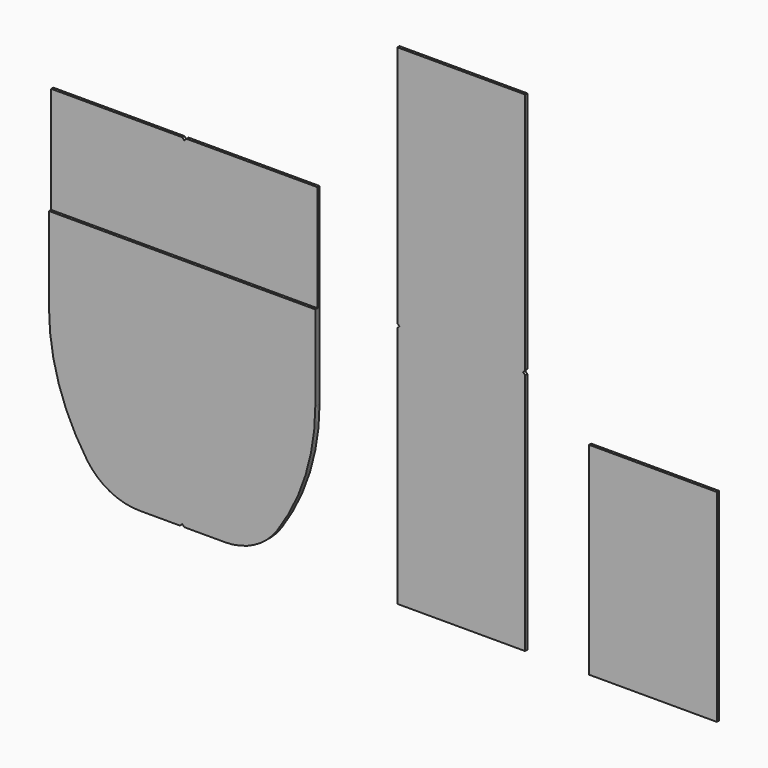
from build123d import *

# Parameters (mm, degrees)
F1_DEPTH = 3.175
F3_DEPTH = 3.175
F5_DEPTH = 3.175
F6_W     = 152.4
F6_H     = 584.2
F6_H_2   = 241.3
F7_DEPTH = 3.175
F9_DEPTH = 25.4


with BuildPart() as f1:
    # F0 (on Front) → F1 (new body)
    with BuildSketch(Plane.XZ):
        with BuildLine():
            Line((158.75, 177.8), (158.75, 406.4))
            Line((158.75, 406.4), (-158.75, 406.4))
            Line((-158.75, 406.4), (-158.75, 177.8))
            ThreePointArc((-158.75, 177.8), (-147.159009, 101.848747), (-113.441281, 32.8121))
            ThreePointArc((-113.441281, 32.8121), (-86.157333, 8.699637), (-50.8, 0))
            Line((-50.8, 0), (0, 0))
            Line((0, 0), (50.8, 0))
            ThreePointArc((50.8, 0), (86.157333, 8.699637), (113.441281, 32.8121))
            ThreePointArc((113.441281, 32.8121), (147.159009, 101.848747), (158.75, 177.8))
        make_face()
    extrude(amount=F1_DEPTH)


with BuildPart() as f3:
    # F2 (on face) → F3 (new body)
    with BuildSketch(Plane.XZ.offset(3.175)):
        with BuildLine():
            Line((-158.75, 279.4), (-158.75, 177.8))
            ThreePointArc((-158.75, 177.8), (-147.159009, 101.848747), (-113.441281, 32.8121))
            ThreePointArc((-113.441281, 32.8121), (-86.157333, 8.699637), (-50.8, 0))
            Line((-50.8, 0), (50.8, 0))
            ThreePointArc((50.8, 0), (86.157333, 8.699637), (113.441281, 32.8121))
            ThreePointArc((113.441281, 32.8121), (147.159009, 101.848747), (158.75, 177.8))
            Line((158.75, 177.8), (158.75, 279.4))
            Line((158.75, 279.4), (-158.75, 279.4))
        make_face()
    extrude(amount=F3_DEPTH)


with BuildPart() as f5:
    # F4 (on face) → F5 (new body)
    with BuildSketch(Plane(origin=(0, 0, 0), x_dir=(-1, 0, 0), z_dir=(0, 1, 0))):
        with BuildLine():
            Line((-50.8, 9.525), (50.8, 9.525))
            ThreePointArc((50.8, 9.525), (81.737666, 17.137182), (105.611121, 38.235587))
            ThreePointArc((105.611121, 38.235587), (138.067587, 104.689816), (149.225, 177.8))
            Line((149.225, 177.8), (149.225, 396.875))
            Line((149.225, 396.875), (-149.225, 396.875))
            Line((-149.225, 396.875), (-149.225, 177.8))
            ThreePointArc((-149.225, 177.8), (-138.067587, 104.689816), (-105.611121, 38.235587))
            ThreePointArc((-105.611121, 38.235587), (-81.737666, 17.137182), (-50.8, 9.525))
        make_face()
    extrude(amount=F5_DEPTH)


with BuildPart() as f7:
    # F6 (on Front) → F7 (new body)
    with BuildSketch(Plane.XZ):
        with Locations((330.2, 292.1)):
            Rectangle(F6_W, F6_H)
        with Locations((558.8, 120.65)):
            Rectangle(F6_W, F6_H_2)
    extrude(amount=F7_DEPTH)


with BuildPart() as f9_tool:
    # F8 (on face) → F9 (new body)
    with BuildSketch(Plane.XZ.offset(6.35)):
        Polygon((0, 2.54), (-2.54, 0), (2.54, 0), align=None)
        Polygon((406.4, 289.56), (406.4, 294.64), (403.86, 292.1), align=None)
        Polygon((256.54, 292.1), (254, 294.64), (254, 289.56), align=None)
        Polygon((2.54, 406.4), (-2.54, 406.4), (0, 403.86), align=None)
    extrude(amount=-F9_DEPTH)


with BuildPart() as f1_1:
    add(f1.part)

    # F9: cut by f9_tool
    add(f9_tool.part, mode=Mode.SUBTRACT)


with BuildPart() as f3_1:
    add(f3.part)

    # F9: cut by f9_tool
    add(f9_tool.part, mode=Mode.SUBTRACT)


with BuildPart() as f7_1:
    add(f7.part)

    # F9: cut by f9_tool
    add(f9_tool.part, mode=Mode.SUBTRACT)


solid = Compound([f5.part, f1_1.part, f3_1.part, f7_1.part])
